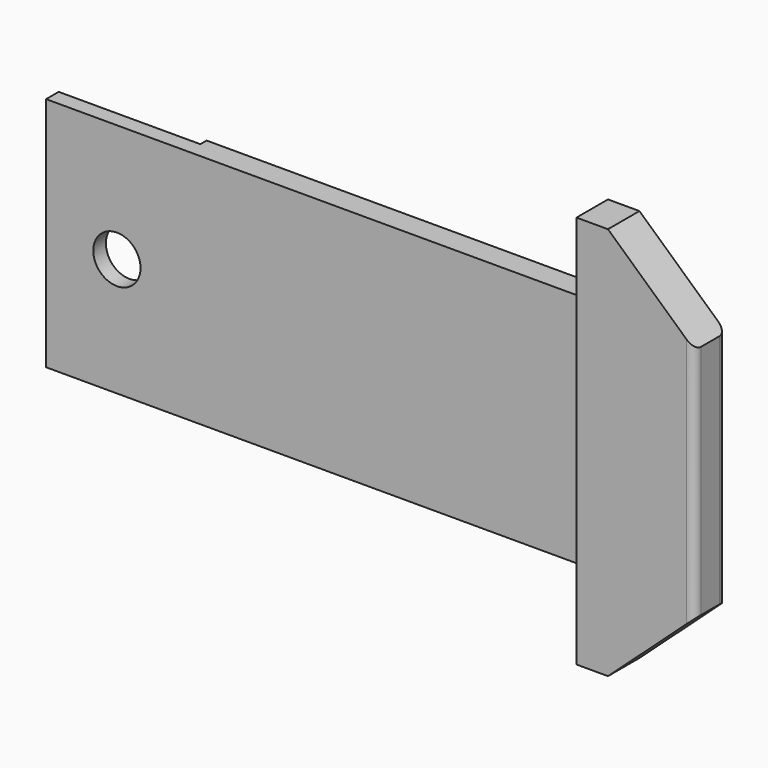
from build123d import *

# Parameters (mm, degrees)
F0_W     = 42
F0_H     = 15
F1_DEPTH = 1.5
F2_R     = 1.5
F3_DEPTH = 1.501
F5_DEPTH = 1.5
F6_W     = 9
F6_H     = 0.5
F7_DEPTH = 20.001
F9_DEPTH = 1
F10_R    = 0.5


with BuildPart() as f1:
    # F0 (on Front) → F1 (new body)
    with BuildSketch(Plane.XZ):
        with Locations((4, 0)):
            Rectangle(F0_W, F0_H)
    extrude(amount=F1_DEPTH)

    # F2 (on face) → F3 (cut, through all)
    with BuildSketch(Plane.XZ.offset(1.5)):
        with Locations((-12.5, 0)):
            Circle(F2_R)
    extrude(amount=-F3_DEPTH, mode=Mode.SUBTRACT)

    # F4 (on face) → F5 (join, through all)
    with BuildSketch(Plane.XZ.offset(1.5)):
        Polygon((19.5, -12.5), (25, -7.5), (17.5, -7.5), (17.5, -12.5), align=None)
        Polygon((17.5, 7.5), (25, 7.5), (19.5, 12.5), (17.5, 12.5), align=None)
    extrude(amount=-F5_DEPTH)

    # F6 (on face) → F7 (cut, through all)
    with BuildSketch(Plane(origin=(0, 0, -7.5), x_dir=(1, 0, 0), z_dir=(0, 0, -1))):
        with Locations((-12.5, 0.25)):
            Rectangle(F6_W, F6_H)
    extrude(amount=-F7_DEPTH, mode=Mode.SUBTRACT)

    # F8 (on face) → F9 (join)
    with BuildSketch(Plane.XZ.offset(1.5)):
        Polygon((25, 7.5), (19.5, 12.5), (17.5, 12.5), (17.5, -12.5), (19.5, -12.5), (25, -7.5), align=None)
    extrude(amount=F9_DEPTH)

    # F10
    f10_edges = [f1.edges().sort_by_distance(p)[0] for p in [
        (25, -2.5, 0),
        (25, 0, 0),
    ]]
    fillet(f10_edges, radius=F10_R)


solid = f1.part
